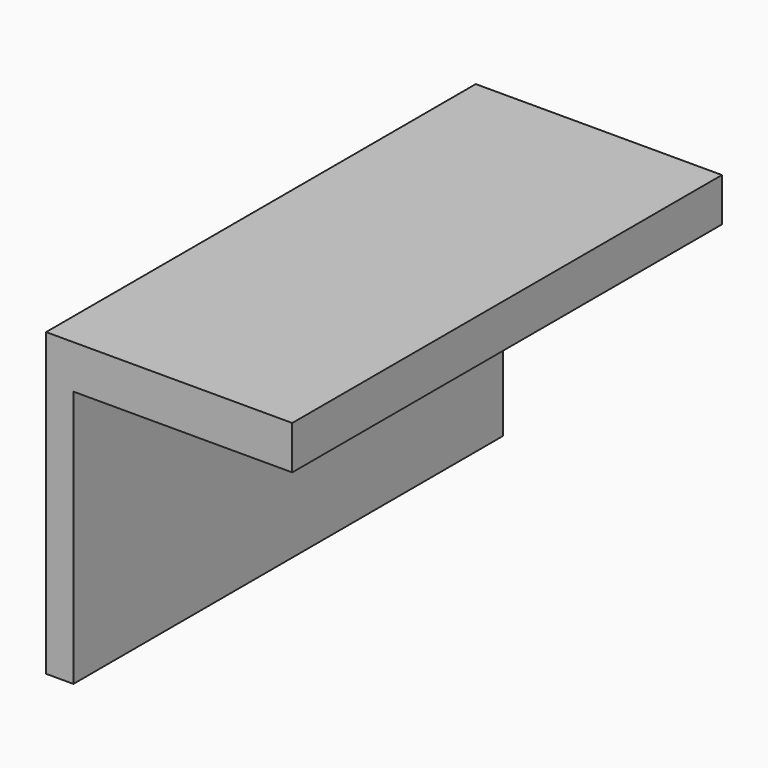
from build123d import *

# Parameters (mm, degrees)
F1_DEPTH = 3048
F2_W     = 253.825963
F2_H     = 309.076309
F3_DEPTH = 106.68
F4_R     = 80.698457
F5_DEPTH = 152.4


with BuildPart() as f1:
    # F0 (on Front) → F1 (new body)
    with BuildSketch(Plane.XZ):
        Polygon((-1397, -724.165228), (-1241.777778, -724.165228), (-1241.777778, 736.374709), (-445.169207, 736.374709), (-232.973195, 736.374709), (0, 736.374709), (0, 983.279217), (-1397, 983.279217), align=None)
    extrude(amount=F1_DEPTH)

    # F2 (on face) → F3 (join)
    with BuildSketch(Plane(origin=(0, 0, 736.374709), x_dir=(1, 0, 0), z_dir=(0, 0, -1))):
        with Locations((-554.458589, 1582.603574)):
            Rectangle(F2_W, F2_H)
    extrude(amount=F3_DEPTH)

    # F4 (on face) → F5 (join)
    with BuildSketch(Plane(origin=(0, 0, 629.694709), x_dir=(1, 0, 0), z_dir=(0, 0, -1))):
        with Locations((-551.249266, 1576.106191)):
            Circle(F4_R)
    extrude(amount=F5_DEPTH)


solid = f1.part
